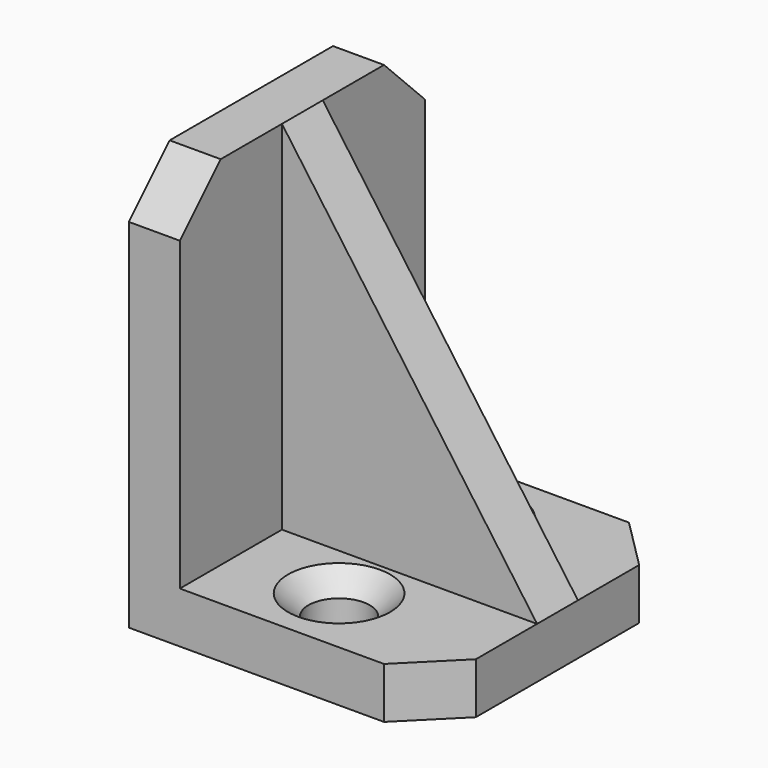
from build123d import *

# Parameters (mm, degrees)
F0_W     = 30
F0_H     = 30
F0_R     = 3
F1_DEPTH = 5
F2_W     = 30
F2_H     = 35
F3_DEPTH = 5
F6_DEPTH = 2.5
F7_SIZE  = 5
F8_SIZE  = 2


with BuildPart() as f1:
    # F0 (on Top) → F1 (new body)
    with BuildSketch(Plane.XY):
        with Locations((-89.0373364091, 8)):
            Rectangle(F0_W, F0_H)
        with Locations((-89.0373364091, 0)):
            Circle(F0_R, mode=Mode.SUBTRACT)
        with Locations((-89.0373364091, 16)):
            Circle(F0_R, mode=Mode.SUBTRACT)
    extrude(amount=F1_DEPTH)

    # F2 (on face) → F3 (join)
    with BuildSketch(Plane(origin=(-104.0373364091, 0, 0), x_dir=(0, -1, 0), z_dir=(-1, 0, 0))):
        with Locations((-8, 22.5)):
            Rectangle(F2_W, F2_H)
    extrude(amount=-F3_DEPTH)

    # F5 (on line) → F6 (join, symmetric)
    with BuildSketch(Plane(origin=(0, 8, 0), x_dir=(-1, 0, 0), z_dir=(0, 1, 0))):
        Polygon((99.0373364091, 5), (99.0373364091, 40), (74.0373364091, 5), align=None)
    extrude(amount=F6_DEPTH, both=True)

    # F7
    f7_edges = [f1.edges().sort_by_distance(p)[0] for p in [
        (-101.537336, -7, 40),
        (-101.537336, 23, 40),
        (-74.037336, -7, 2.5),
        (-74.037336, 23, 2.5),
    ]]
    chamfer(f7_edges, length=F7_SIZE)

    # F8
    f8_edges = [f1.edges().sort_by_distance(p)[0] for p in [
        (-92.037336, 0, 5),
        (-92.037336, 16, 5),
    ]]
    chamfer(f8_edges, length=F8_SIZE)


solid = f1.part
